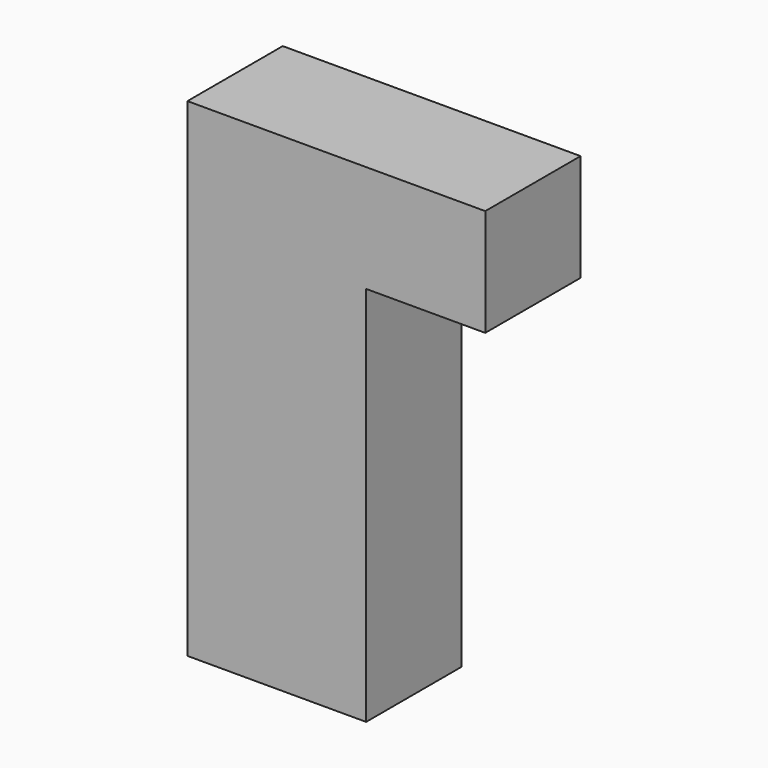
from build123d import *

# Parameters (mm, degrees)
PAD_DEPTH = 5


with BuildPart() as part:
    # Sketch → Pad (new body, symmetric)
    with BuildSketch(Plane.XZ):
        Polygon((-12.5, 0), (-12.5, -41), (2.5, -41), (2.5, -9), (12.5, -9), (12.5, 0), align=None)
    extrude(amount=PAD_DEPTH, both=True)


solid = part.part
